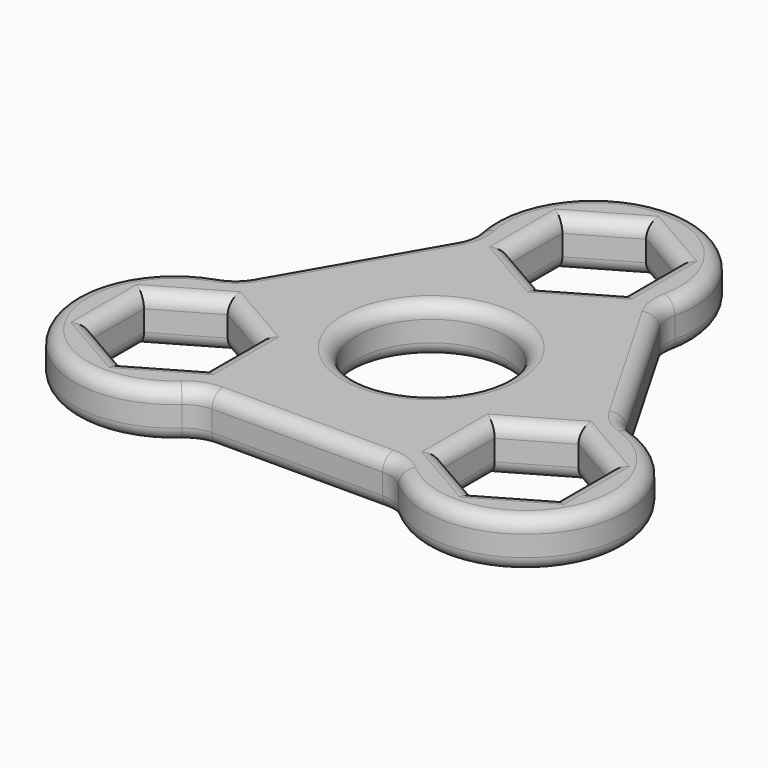
from build123d import *

# Parameters (mm, degrees)
F0_R     = 10.8
F1_DEPTH = 7
F2_R     = 2
F3_R     = 2


with BuildPart() as f1:
    # F0 (on Top) → F1 (new body)
    with BuildSketch(Plane.XY):
        with BuildLine():
            ThreePointArc((14.852192, 22.875248), (14.244908, 24.586598), (14.288871, 26.401971))
            ThreePointArc((14.288871, 26.401971), (0, 44), (-14.288871, 26.401971))
            ThreePointArc((-14.288871, 26.401971), (-14.244908, 24.586598), (-14.852192, 22.875248))
            Line((-14.852192, 22.875248), (-27.236642, 1.424752))
            ThreePointArc((-27.236642, 1.424752), (-28.415072, 0.043153), (-30.009213, -0.826461))
            ThreePointArc((-30.009213, -0.826461), (-38.105118, -22), (-15.720342, -25.57551))
            ThreePointArc((-15.720342, -25.57551), (-14.170164, -24.629751), (-12.38445, -24.3))
            Line((-12.38445, -24.3), (12.38445, -24.3))
            ThreePointArc((12.38445, -24.3), (14.170164, -24.629751), (15.720342, -25.57551))
            ThreePointArc((15.720342, -25.57551), (38.105118, -22), (30.009213, -0.826461))
            ThreePointArc((30.009213, -0.826461), (28.415072, 0.043153), (27.236642, 1.424752))
            Line((27.236642, 1.424752), (14.852192, 22.875248))
        make_face()
        Polygon((-17.147303, -9.9), (-17.147303, -19.5), (-25.461147, -24.3), (-33.774991, -19.5), (-33.774991, -9.9), (-25.461147, -5.1), align=None, mode=Mode.SUBTRACT)
        Polygon((17.147303, -9.9), (25.461147, -5.1), (33.774991, -9.9), (33.774991, -19.5), (25.461147, -24.3), (17.147303, -19.5), align=None, mode=Mode.SUBTRACT)
        Circle(F0_R, mode=Mode.SUBTRACT)
        Polygon((0, 39), (8.313844, 34.2), (8.313844, 24.6), (0, 19.8), (-8.313844, 24.6), (-8.313844, 34.2), align=None, mode=Mode.SUBTRACT)
    extrude(amount=F1_DEPTH)

    # F2
    f2_edges = [f1.edges().sort_by_distance(p)[0] for p in [
        (14.244908, 24.586598, 7),
        (0, 44, 7),
        (-14.244908, 24.586598, 7),
        (-21.044417, 12.15, 7),
        (-28.415072, 0.043153, 7),
        (-38.105118, -22, 7),
        (-14.170164, -24.629751, 7),
        (0, -24.3, 7),
        (14.170164, -24.629751, 7),
        (38.105118, -22, 7),
        (28.415072, 0.043153, 7),
        (21.044417, 12.15, 7),
        (-21.304225, -7.5, 7),
        (-17.147303, -14.7, 7),
        (-21.304225, -21.9, 7),
        (-29.618069, -21.9, 7),
        (-33.774991, -14.7, 7),
        (-29.618069, -7.5, 7),
        (17.147303, -14.7, 7),
        (21.304225, -7.5, 7),
        (29.618069, -7.5, 7),
        (33.774991, -14.7, 7),
        (29.618069, -21.9, 7),
        (21.304225, -21.9, 7),
        (-10.8, 0, 7),
        (-8.313844, 29.4, 7),
        (-4.156922, 36.6, 7),
        (4.156922, 36.6, 7),
        (8.313844, 29.4, 7),
        (4.156922, 22.2, 7),
        (-4.156922, 22.2, 7),
    ]]
    fillet(f2_edges, radius=F2_R)

    # F3
    f3_edges = [f1.edges().sort_by_distance(p)[0] for p in [
        (14.244908, 24.586598, 0),
        (0, 44, 0),
        (-14.244908, 24.586598, 0),
        (-21.044417, 12.15, 0),
        (-28.415072, 0.043153, 0),
        (-38.105118, -22, 0),
        (-14.170164, -24.629751, 0),
        (0, -24.3, 0),
        (14.170164, -24.629751, 0),
        (38.105118, -22, 0),
        (28.415072, 0.043153, 0),
        (21.044417, 12.15, 0),
        (-21.304225, -7.5, 0),
        (-17.147303, -14.7, 0),
        (-21.304225, -21.9, 0),
        (-29.618069, -21.9, 0),
        (-33.774991, -14.7, 0),
        (-29.618069, -7.5, 0),
        (17.147303, -14.7, 0),
        (21.304225, -7.5, 0),
        (29.618069, -7.5, 0),
        (33.774991, -14.7, 0),
        (29.618069, -21.9, 0),
        (21.304225, -21.9, 0),
        (-10.8, 0, 0),
        (-8.313844, 29.4, 0),
        (-4.156922, 36.6, 0),
        (4.156922, 36.6, 0),
        (8.313844, 29.4, 0),
        (4.156922, 22.2, 0),
        (-4.156922, 22.2, 0),
    ]]
    fillet(f3_edges, radius=F3_R)


solid = f1.part
